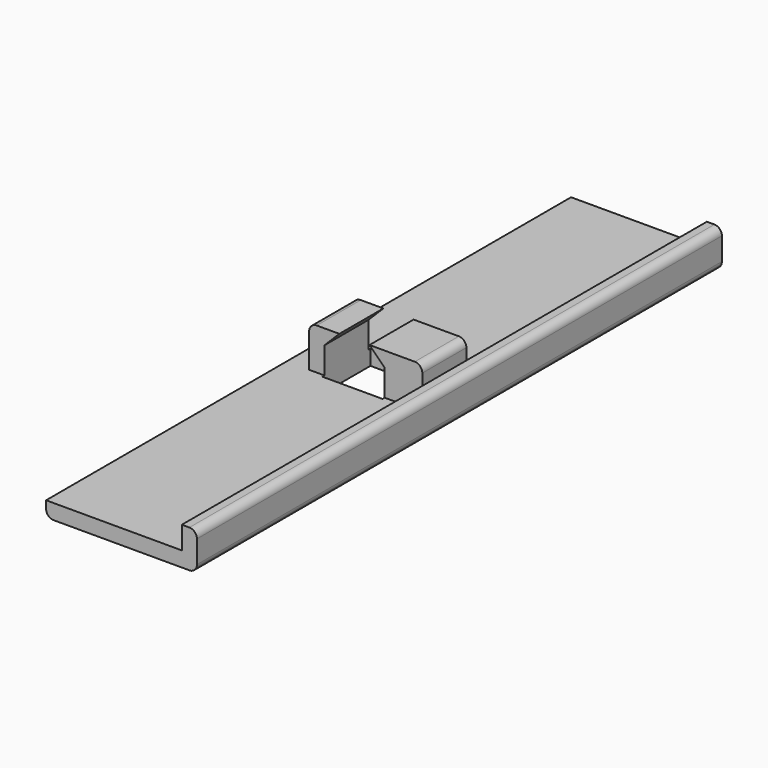
from build123d import *

# Parameters (mm, degrees)
PAD002_DEPTH        = 4
PAD001_DEPTH        = 3.65
PAD_DEPTH           = 43.5
CUT_PLACEMENT_ANGLE = 180


with BuildPart() as obj1:
    # Sketch002 → Pad002 (new body, symmetric)
    with BuildSketch(Plane.XZ):
        Polygon((5, 3), (13, 3), (13, -3.5), (10.19766, -6.30234), (7.80234, -6.30234), (5, -3.5), align=None)
    extrude(amount=PAD002_DEPTH, both=True)


with BuildPart() as insert001:
    # Sketch001 → Pad001 (new body, symmetric)
    with BuildSketch(Plane.XZ):
        with BuildLine():
            Line((4, -5.5), (17, -5.5))
            ThreePointArc((17, -5.5), (17.707107, -5.207107), (18, -4.5))
            Line((18, -4.5), (18, 0))
            Line((3, 0), (18, 0))
            Line((3, -4.5), (3, 0))
            ThreePointArc((3, -4.5), (3.292893, -5.207107), (4, -5.5))
        make_face()
    extrude(amount=PAD001_DEPTH, both=True)


with BuildPart() as obj2:
    # Sketch → Pad (new body, symmetric)
    with BuildSketch(Plane.XZ):
        with BuildLine():
            Line((0, 0), (18, 0))
            Line((18, 0), (18, -3))
            Line((18, -3), (19, -3))
            ThreePointArc((19, -3), (19.707107, -2.707107), (20, -2))
            Line((20, -2), (20, 1))
            ThreePointArc((20, 1), (19.707107, 1.707107), (19, 2))
            Line((19, 2), (1, 2))
            ThreePointArc((1, 2), (0.292893, 1.707107), (0, 1))
            Line((0, 1), (0, 0))
        make_face()
    extrude(amount=PAD_DEPTH, both=True)

    # Fusion: union insert001
    add(insert001.part)

    # Cut: cut obj1
    add(obj1.part, mode=Mode.SUBTRACT)


with BuildPart() as obj2_1:
    # Cut placement: moved
    add(obj2.part.moved(Location((0, 0, 2))).rotate(Axis((0, 0, 2), (1, 0, 0)), CUT_PLACEMENT_ANGLE))


solid = obj2_1.part
